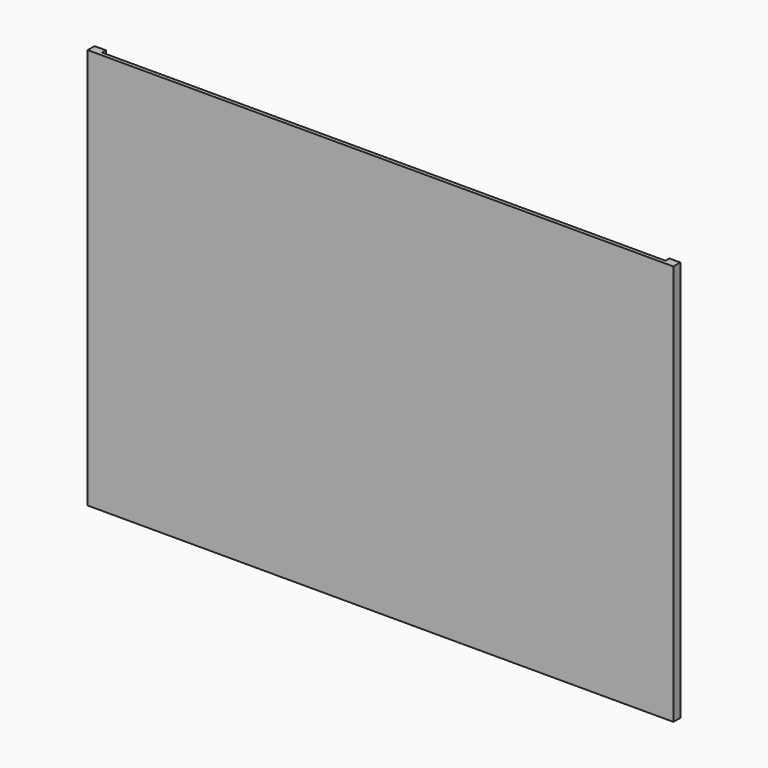
from build123d import *

# Parameters (mm, degrees)
F0_W     = 213.36
F0_H     = 146.05
F1_DEPTH = 1.5748
F2_W     = 205.2828
F2_H     = 143.51
F3_DEPTH = 1.778


with BuildPart() as f1:
    # F0 (on Front) → F1 (new body, symmetric)
    with BuildSketch(Plane.XZ):
        Rectangle(F0_W, F0_H)
    extrude(amount=F1_DEPTH, both=True)

    # F2 (on face) → F3 (cut)
    with BuildSketch(Plane(origin=(0, 1.5748, 0), x_dir=(-1, 0, 0), z_dir=(0, 1, 0))):
        with Locations((-0.084434, 1.27)):
            Rectangle(F2_W, F2_H)
    extrude(amount=-F3_DEPTH, mode=Mode.SUBTRACT)


solid = f1.part
